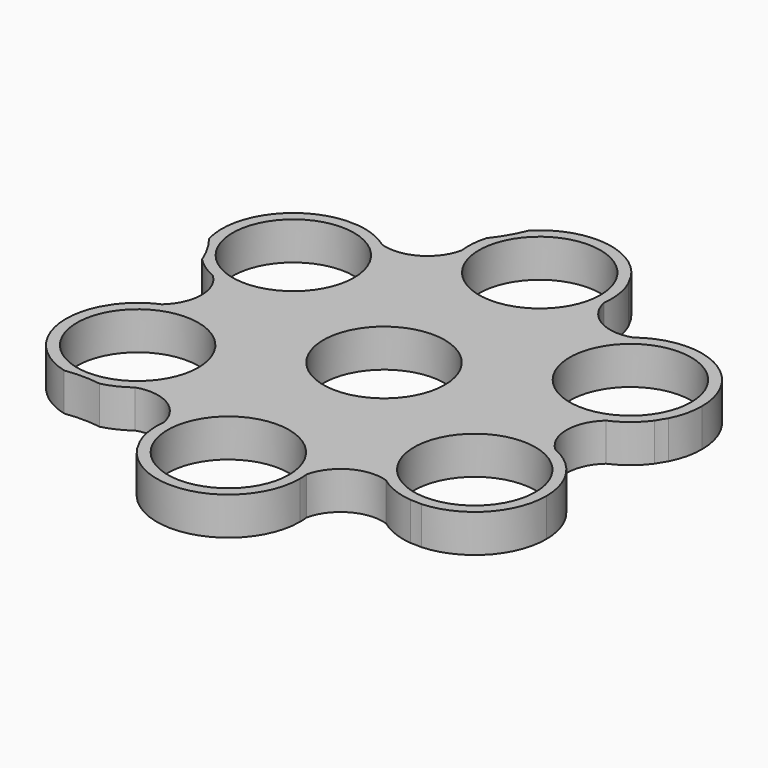
from build123d import *

# Parameters (mm, degrees)
F0_R     = 11.2
F0_R_2   = 13.2
F1_DEPTH = 7


with BuildPart() as f1:
    # F0 (on Top) → F1 (new body)
    with BuildSketch(Plane.XY):
        with BuildLine():
            ThreePointArc((-36.21903, 5.78652), (-19.634866, 11.382994), (-23.185572, 28.522057))
            ThreePointArc((-23.185572, 28.522057), (-26.275542, 30.239878), (-29.710626, 31.075951))
            ThreePointArc((-29.710626, 31.075951), (-30.764801, 31.077003), (-31.817763, 31.127599))
            ThreePointArc((-31.817763, 31.127599), (-41.802797, 25.655223), (-43.814174, 14.447985))
            ThreePointArc((-43.814174, 14.447985), (-41.972925, 11.717586), (-40.55145, 8.746949))
            ThreePointArc((-40.55145, 8.746949), (-38.533827, 7.049286), (-36.21903, 5.78652))
        make_face()
        with Locations((-31.086612, 17.947864)):
            Circle(F0_R, mode=Mode.SUBTRACT)
        with BuildLine():
            ThreePointArc((-9.394765, 45.168181), (-10.838735, 42.208413), (-12.700645, 39.492061))
            ThreePointArc((-12.700645, 39.492061), (-13.162052, 36.895916), (-13.098242, 34.25986))
            ThreePointArc((-13.098242, 34.25986), (0.040529, 22.69579), (13.10804, 34.340323))
            ThreePointArc((13.10804, 34.340323), (13.050731, 37.875226), (12.05725, 41.268132))
            ThreePointArc((12.05725, 41.268132), (11.531073, 42.181601), (11.04841, 43.11879))
            ThreePointArc((11.04841, 43.11879), (1.316676, 49.029895), (-9.394765, 45.168181))
        make_face()
        with Locations((0, 35.895728)):
            Circle(F0_R, mode=Mode.SUBTRACT)
        with BuildLine():
            ThreePointArc((44.286612, 17.947864), (36.964159, 29.767104), (23.120788, 28.47334))
            ThreePointArc((23.120788, 28.47334), (19.675395, 11.312796), (36.293612, 5.818266))
            ThreePointArc((36.293612, 5.818266), (39.326273, 7.635348), (41.767875, 10.192181))
            ThreePointArc((41.767875, 10.192181), (42.295874, 11.104598), (42.866173, 11.991191))
            ThreePointArc((42.866173, 11.991191), (43.926593, 14.886018), (44.286612, 17.947864))
        make_face()
        with Locations((31.086612, 17.947864)):
            Circle(F0_R, mode=Mode.SUBTRACT)
        with BuildLine():
            ThreePointArc((13.10804, 34.340323), (0.040529, 22.69579), (-13.098242, 34.25986))
            ThreePointArc((-13.098242, 34.25986), (-16.865441, 29.14687), (-23.185572, 28.522057))
            ThreePointArc((-23.185572, 28.522057), (-19.634866, 11.382994), (-36.21903, 5.78652))
            ThreePointArc((-36.21903, 5.78652), (-33.67465, -0.032465), (-36.293612, -5.818266))
            ThreePointArc((-36.293612, -5.818266), (-19.675395, -11.312796), (-23.120788, -28.47334))
            ThreePointArc((-23.120788, -28.47334), (-16.80921, -29.179335), (-13.10804, -34.340323))
            ThreePointArc((-13.10804, -34.340323), (-0.040529, -22.69579), (13.098242, -34.25986))
            ThreePointArc((13.098242, -34.25986), (16.865441, -29.14687), (23.185572, -28.522057))
            ThreePointArc((23.185572, -28.522057), (19.634866, -11.382994), (36.21903, -5.78652))
            ThreePointArc((36.21903, -5.78652), (33.67465, 0.032465), (36.293612, 5.818266))
            ThreePointArc((36.293612, 5.818266), (19.675395, 11.312796), (23.120788, 28.47334))
            ThreePointArc((23.120788, 28.47334), (16.80921, 29.179335), (13.10804, 34.340323))
        make_face()
        Circle(F0_R_2, mode=Mode.SUBTRACT)
        with BuildLine():
            ThreePointArc((44.286612, -17.947864), (42.086337, -10.650875), (36.21903, -5.78652))
            ThreePointArc((36.21903, -5.78652), (19.634866, -11.382994), (23.185572, -28.522057))
            ThreePointArc((23.185572, -28.522057), (26.275542, -30.239878), (29.710626, -31.075951))
            ThreePointArc((29.710626, -31.075951), (30.764801, -31.077003), (31.817763, -31.127599))
            ThreePointArc((31.817763, -31.127599), (40.675438, -27.01949), (44.286612, -17.947864))
        make_face()
        with Locations((31.086612, -17.947864)):
            Circle(F0_R, mode=Mode.SUBTRACT)
        with BuildLine():
            ThreePointArc((13.098242, -34.25986), (-0.040529, -22.69579), (-13.10804, -34.340323))
            ThreePointArc((-13.10804, -34.340323), (-13.050731, -37.875226), (-12.05725, -41.268132))
            ThreePointArc((-12.05725, -41.268132), (-11.531073, -42.181601), (-11.04841, -43.11879))
            ThreePointArc((-11.04841, -43.11879), (3.768354, -48.5464), (13.2, -35.895728))
            ThreePointArc((13.2, -35.895728), (13.174536, -35.076213), (13.098242, -34.25986))
        make_face()
        with Locations((0, -35.895728)):
            Circle(F0_R, mode=Mode.SUBTRACT)
        with BuildLine():
            ThreePointArc((-23.120788, -28.47334), (-19.675395, -11.312796), (-36.293612, -5.818266))
            ThreePointArc((-36.293612, -5.818266), (-39.326273, -7.635348), (-41.767875, -10.192181))
            ThreePointArc((-41.767875, -10.192181), (-42.295874, -11.104598), (-42.866173, -11.991191))
            ThreePointArc((-42.866173, -11.991191), (-43.119473, -23.374673), (-34.419409, -30.720196))
            ThreePointArc((-34.419409, -30.720196), (-31.13419, -30.490827), (-27.850805, -30.745112))
            ThreePointArc((-27.850805, -30.745112), (-25.371774, -29.84663), (-23.120788, -28.47334))
        make_face()
        with Locations((-31.086612, -17.947864)):
            Circle(F0_R, mode=Mode.SUBTRACT)
        Circle(F0_R_2)
        Circle(F0_R, mode=Mode.SUBTRACT)
    extrude(amount=F1_DEPTH)


solid = f1.part
